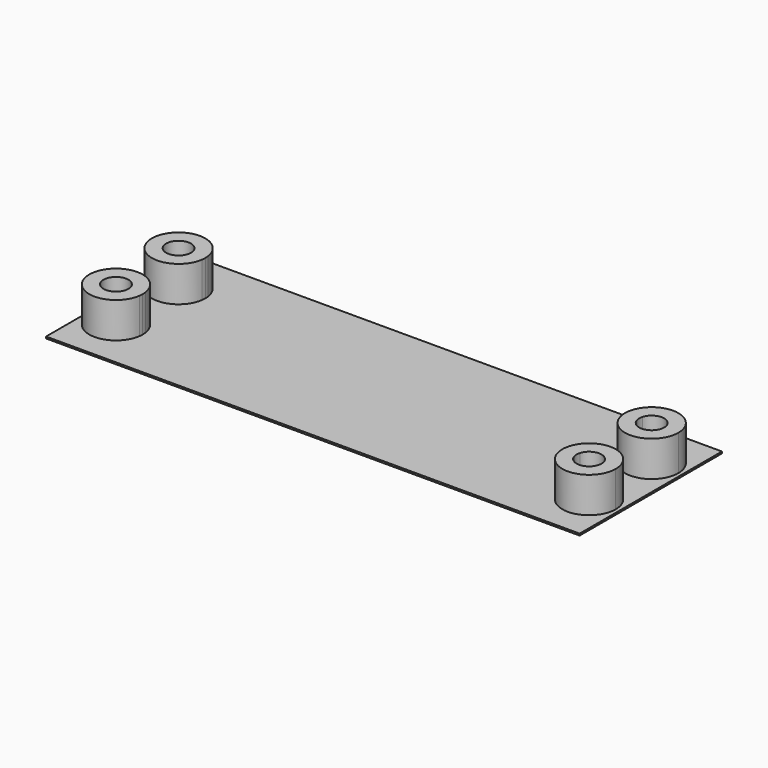
from build123d import *

# Parameters (mm, degrees)
F0_W     = 75
F0_H     = 25
F1_DEPTH = 0.25
F4_DEPTH = 5


with BuildPart() as f1:
    # F0 (on Top) → F1 (new body)
    with BuildSketch(Plane.XY):
        with Locations((-0.3449308872, 0.0735294118)):
            Rectangle(F0_W, F0_H)
        with BuildLine():
            ThreePointArc((-29.8784137004, -5.9264705882), (-37.3449308872, -5.4264705882), (-29.8784137004, -4.9264705882))
            Line((-29.8784137004, -4.9264705882), (-28.3449308872, -4.9264705882))
            Line((-28.3449308872, -4.9264705882), (-24.3449308872, -1.4264705882))
            Line((-24.3449308872, -1.4264705882), (23.6550691128, -1.4264705882))
            Line((23.6550691128, -1.4264705882), (27.6550691128, -4.9264705882))
            Line((27.6550691128, -4.9264705882), (29.1885519259, -4.9264705882))
            ThreePointArc((29.1885519259, -4.9264705882), (33.1556290351, -1.6848506549), (36.6550691128, -5.4264705882))
            ThreePointArc((36.6550691128, -5.4264705882), (33.1556290351, -9.1680905215), (29.1885519259, -5.9264705882))
            Line((29.1885519259, -5.9264705882), (27.6550691128, -5.9264705882))
            Line((27.6550691128, -5.9264705882), (23.6550691128, -9.4264705882))
            Line((23.6550691128, -9.4264705882), (-24.3449308872, -9.4264705882))
            Line((-24.3449308872, -9.4264705882), (-28.3449308872, -5.9264705882))
            Line((-28.3449308872, -5.9264705882), (-29.8784137004, -5.9264705882))
        make_face(mode=Mode.SUBTRACT)
        with BuildLine():
            ThreePointArc((-29.8784137004, 5.0735294118), (-37.3449308872, 5.5735294118), (-29.8784137004, 6.0735294118))
            Line((-29.8784137004, 6.0735294118), (-28.3449308872, 6.0735294118))
            Line((-28.3449308872, 6.0735294118), (-24.3449308872, 9.5735294118))
            Line((-24.3449308872, 9.5735294118), (23.6550691128, 9.5735294118))
            Line((23.6550691128, 9.5735294118), (27.6550691128, 6.0735294118))
            Line((27.6550691128, 6.0735294118), (29.1885519259, 6.0735294118))
            ThreePointArc((29.1885519259, 6.0735294118), (33.1556290351, 9.3151493451), (36.6550691128, 5.5735294118))
            ThreePointArc((36.6550691128, 5.5735294118), (33.1556290351, 1.8319094785), (29.1885519259, 5.0735294118))
            Line((29.1885519259, 5.0735294118), (27.6550691128, 5.0735294118))
            Line((27.6550691128, 5.0735294118), (23.6550691128, 1.5735294118))
            Line((23.6550691128, 1.5735294118), (-24.3449308872, 1.5735294118))
            Line((-24.3449308872, 1.5735294118), (-28.3449308872, 5.0735294118))
            Line((-28.3449308872, 5.0735294118), (-29.8784137004, 5.0735294118))
        make_face(mode=Mode.SUBTRACT)
        with BuildLine():
            Line((29.1885519259, 6.0735294118), (27.6550691128, 6.0735294118))
            Line((27.6550691128, 6.0735294118), (27.6550691128, 5.0735294118))
            Line((27.6550691128, 5.0735294118), (29.1885519259, 5.0735294118))
            ThreePointArc((29.1885519259, 5.0735294118), (29.1550691128, 5.5735294118), (29.1885519259, 6.0735294118))
        make_face()
        with BuildLine():
            ThreePointArc((36.6550691128, 5.5735294118), (33.1556290351, 9.3151493451), (29.1885519259, 6.0735294118))
            Line((29.1885519259, 6.0735294118), (31.2280181297, 6.0735294118))
            ThreePointArc((31.2280181297, 6.0735294118), (33.1577158815, 7.3051961263), (34.6550691128, 5.5735294118))
            ThreePointArc((34.6550691128, 5.5735294118), (33.1577158815, 3.8418626972), (31.2280181297, 5.0735294118))
            Line((31.2280181297, 5.0735294118), (29.1885519259, 5.0735294118))
            ThreePointArc((29.1885519259, 5.0735294118), (33.1556290351, 1.8319094785), (36.6550691128, 5.5735294118))
        make_face()
        with BuildLine():
            Line((31.2280181297, 6.0735294118), (29.1885519259, 6.0735294118))
            ThreePointArc((29.1885519259, 6.0735294118), (29.1550691128, 5.5735294118), (29.1885519259, 5.0735294118))
            Line((29.1885519259, 5.0735294118), (31.2280181297, 5.0735294118))
            ThreePointArc((31.2280181297, 5.0735294118), (31.1550691128, 5.5735294118), (31.2280181297, 6.0735294118))
        make_face()
        with BuildLine():
            ThreePointArc((34.6550691128, 5.5735294118), (33.1577158815, 7.3051961263), (31.2280181297, 6.0735294118))
            Line((31.2280181297, 6.0735294118), (34.1550691128, 6.0735294118))
            Line((34.1550691128, 6.0735294118), (34.1550691128, 5.0735294118))
            Line((34.1550691128, 5.0735294118), (31.2280181297, 5.0735294118))
            ThreePointArc((31.2280181297, 5.0735294118), (33.1577158815, 3.8418626972), (34.6550691128, 5.5735294118))
        make_face()
        with BuildLine():
            Line((29.1885519259, -4.9264705882), (27.6550691128, -4.9264705882))
            Line((27.6550691128, -4.9264705882), (27.6550691128, -5.9264705882))
            Line((27.6550691128, -5.9264705882), (29.1885519259, -5.9264705882))
            ThreePointArc((29.1885519259, -5.9264705882), (29.1550691128, -5.4264705882), (29.1885519259, -4.9264705882))
        make_face()
        with BuildLine():
            Line((31.2280181297, -4.9264705882), (29.1885519259, -4.9264705882))
            ThreePointArc((29.1885519259, -4.9264705882), (29.1550691128, -5.4264705882), (29.1885519259, -5.9264705882))
            Line((29.1885519259, -5.9264705882), (31.2280181297, -5.9264705882))
            ThreePointArc((31.2280181297, -5.9264705882), (31.1550691128, -5.4264705882), (31.2280181297, -4.9264705882))
        make_face()
        with BuildLine():
            ThreePointArc((36.6550691128, -5.4264705882), (33.1556290351, -1.6848506549), (29.1885519259, -4.9264705882))
            Line((29.1885519259, -4.9264705882), (31.2280181297, -4.9264705882))
            ThreePointArc((31.2280181297, -4.9264705882), (33.1577158815, -3.6948038737), (34.6550691128, -5.4264705882))
            ThreePointArc((34.6550691128, -5.4264705882), (33.1577158815, -7.1581373028), (31.2280181297, -5.9264705882))
            Line((31.2280181297, -5.9264705882), (29.1885519259, -5.9264705882))
            ThreePointArc((29.1885519259, -5.9264705882), (33.1556290351, -9.1680905215), (36.6550691128, -5.4264705882))
        make_face()
        with BuildLine():
            ThreePointArc((34.6550691128, -5.4264705882), (33.1577158815, -3.6948038737), (31.2280181297, -4.9264705882))
            Line((31.2280181297, -4.9264705882), (34.1550691128, -4.9264705882))
            Line((34.1550691128, -4.9264705882), (34.1550691128, -5.9264705882))
            Line((34.1550691128, -5.9264705882), (31.2280181297, -5.9264705882))
            ThreePointArc((31.2280181297, -5.9264705882), (33.1577158815, -7.1581373028), (34.6550691128, -5.4264705882))
        make_face()
        Polygon((-24.3449308872, -1.4264705882), (-28.3449308872, -4.9264705882), (-28.3449308872, -5.9264705882), (-24.3449308872, -9.4264705882), (23.6550691128, -9.4264705882), (27.6550691128, -5.9264705882), (27.6550691128, -4.9264705882), (23.6550691128, -1.4264705882), align=None)
        Polygon((-24.3449308872, 9.5735294118), (-28.3449308872, 6.0735294118), (-28.3449308872, 5.0735294118), (-24.3449308872, 1.5735294118), (23.6550691128, 1.5735294118), (27.6550691128, 5.0735294118), (27.6550691128, 6.0735294118), (23.6550691128, 9.5735294118), align=None)
        with BuildLine():
            Line((-28.3449308872, 6.0735294118), (-29.8784137004, 6.0735294118))
            ThreePointArc((-29.8784137004, 6.0735294118), (-29.8533109539, 5.8240893341), (-29.8449308872, 5.5735294118))
            ThreePointArc((-29.8449308872, 5.5735294118), (-29.8533109539, 5.3229694894), (-29.8784137004, 5.0735294118))
            Line((-29.8784137004, 5.0735294118), (-28.3449308872, 5.0735294118))
            Line((-28.3449308872, 5.0735294118), (-28.3449308872, 6.0735294118))
        make_face()
        with BuildLine():
            Line((-28.3449308872, -4.9264705882), (-29.8784137004, -4.9264705882))
            ThreePointArc((-29.8784137004, -4.9264705882), (-29.8533109539, -5.1759106659), (-29.8449308872, -5.4264705882))
            ThreePointArc((-29.8449308872, -5.4264705882), (-29.8533109539, -5.6770305106), (-29.8784137004, -5.9264705882))
            Line((-29.8784137004, -5.9264705882), (-28.3449308872, -5.9264705882))
            Line((-28.3449308872, -5.9264705882), (-28.3449308872, -4.9264705882))
        make_face()
        with BuildLine():
            ThreePointArc((-31.9178799041, -5.9264705882), (-35.3449308872, -5.4264705882), (-31.9178799041, -4.9264705882))
            Line((-31.9178799041, -4.9264705882), (-29.8784137004, -4.9264705882))
            ThreePointArc((-29.8784137004, -4.9264705882), (-37.3449308872, -5.4264705882), (-29.8784137004, -5.9264705882))
            Line((-29.8784137004, -5.9264705882), (-31.9178799041, -5.9264705882))
        make_face()
        with BuildLine():
            Line((-29.8784137004, -4.9264705882), (-31.9178799041, -4.9264705882))
            ThreePointArc((-31.9178799041, -4.9264705882), (-31.8632641727, -5.1738238195), (-31.8449308872, -5.4264705882))
            ThreePointArc((-31.8449308872, -5.4264705882), (-31.8632641727, -5.679117357), (-31.9178799041, -5.9264705882))
            Line((-31.9178799041, -5.9264705882), (-29.8784137004, -5.9264705882))
            ThreePointArc((-29.8784137004, -5.9264705882), (-29.8533109539, -5.6770305106), (-29.8449308872, -5.4264705882))
            ThreePointArc((-29.8449308872, -5.4264705882), (-29.8533109539, -5.1759106659), (-29.8784137004, -4.9264705882))
        make_face()
        with BuildLine():
            Line((-34.8449308872, -5.9264705882), (-34.8449308872, -4.9264705882))
            Line((-34.8449308872, -4.9264705882), (-31.9178799041, -4.9264705882))
            ThreePointArc((-31.9178799041, -4.9264705882), (-35.3449308872, -5.4264705882), (-31.9178799041, -5.9264705882))
            Line((-31.9178799041, -5.9264705882), (-34.8449308872, -5.9264705882))
        make_face()
        with BuildLine():
            ThreePointArc((-31.9178799041, 5.0735294118), (-35.3449308872, 5.5735294118), (-31.9178799041, 6.0735294118))
            Line((-31.9178799041, 6.0735294118), (-29.8784137004, 6.0735294118))
            ThreePointArc((-29.8784137004, 6.0735294118), (-37.3449308872, 5.5735294118), (-29.8784137004, 5.0735294118))
            Line((-29.8784137004, 5.0735294118), (-31.9178799041, 5.0735294118))
        make_face()
        with BuildLine():
            Line((-29.8784137004, 6.0735294118), (-31.9178799041, 6.0735294118))
            ThreePointArc((-31.9178799041, 6.0735294118), (-31.8632641727, 5.8261761805), (-31.8449308872, 5.5735294118))
            ThreePointArc((-31.8449308872, 5.5735294118), (-31.8632641727, 5.320882643), (-31.9178799041, 5.0735294118))
            Line((-31.9178799041, 5.0735294118), (-29.8784137004, 5.0735294118))
            ThreePointArc((-29.8784137004, 5.0735294118), (-29.8533109539, 5.3229694894), (-29.8449308872, 5.5735294118))
            ThreePointArc((-29.8449308872, 5.5735294118), (-29.8533109539, 5.8240893341), (-29.8784137004, 6.0735294118))
        make_face()
        with BuildLine():
            Line((-34.8449308872, 5.0735294118), (-34.8449308872, 6.0735294118))
            Line((-34.8449308872, 6.0735294118), (-31.9178799041, 6.0735294118))
            ThreePointArc((-31.9178799041, 6.0735294118), (-35.3449308872, 5.5735294118), (-31.9178799041, 5.0735294118))
            Line((-31.9178799041, 5.0735294118), (-34.8449308872, 5.0735294118))
        make_face()
    extrude(amount=F1_DEPTH)

    # F3 (on offset) → F4 (join)
    with BuildSketch(Plane.XY.offset(0.25)):
        with BuildLine():
            ThreePointArc((36.6443298969, 5.5567010309), (33.1448898193, 9.2983209642), (29.1778127101, 6.0567010309))
            Line((29.1778127101, 6.0567010309), (31.2172789138, 6.0567010309))
            ThreePointArc((31.2172789138, 6.0567010309), (33.1469766657, 7.2883677455), (34.6443298969, 5.5567010309))
            ThreePointArc((34.6443298969, 5.5567010309), (33.1469766657, 3.8250343164), (31.2172789138, 5.0567010309))
            Line((31.2172789138, 5.0567010309), (29.1778127101, 5.0567010309))
            ThreePointArc((29.1778127101, 5.0567010309), (33.1448898193, 1.8150810976), (36.6443298969, 5.5567010309))
        make_face()
        with BuildLine():
            Line((31.2172789138, 6.0567010309), (29.1778127101, 6.0567010309))
            ThreePointArc((29.1778127101, 6.0567010309), (29.1443298969, 5.5567010309), (29.1778127101, 5.0567010309))
            Line((29.1778127101, 5.0567010309), (31.2172789138, 5.0567010309))
            ThreePointArc((31.2172789138, 5.0567010309), (31.1443298969, 5.5567010309), (31.2172789138, 6.0567010309))
        make_face()
        with BuildLine():
            ThreePointArc((36.6443298969, -5.4432989691), (33.1448898193, -1.7016790358), (29.1778127101, -4.9432989691))
            Line((29.1778127101, -4.9432989691), (31.2172789138, -4.9432989691))
            ThreePointArc((31.2172789138, -4.9432989691), (33.1469766657, -3.7116322545), (34.6443298969, -5.4432989691))
            ThreePointArc((34.6443298969, -5.4432989691), (33.1469766657, -7.1749656836), (31.2172789138, -5.9432989691))
            Line((31.2172789138, -5.9432989691), (29.1778127101, -5.9432989691))
            ThreePointArc((29.1778127101, -5.9432989691), (33.1448898193, -9.1849189024), (36.6443298969, -5.4432989691))
        make_face()
        with BuildLine():
            Line((31.2172789138, -4.9432989691), (29.1778127101, -4.9432989691))
            ThreePointArc((29.1778127101, -4.9432989691), (29.1443298969, -5.4432989691), (29.1778127101, -5.9432989691))
            Line((29.1778127101, -5.9432989691), (31.2172789138, -5.9432989691))
            ThreePointArc((31.2172789138, -5.9432989691), (31.1443298969, -5.4432989691), (31.2172789138, -4.9432989691))
        make_face()
        with BuildLine():
            ThreePointArc((-31.92861912, 5.0567010309), (-35.3556701031, 5.5567010309), (-31.92861912, 6.0567010309))
            Line((-31.92861912, 6.0567010309), (-29.8891529163, 6.0567010309))
            ThreePointArc((-29.8891529163, 6.0567010309), (-37.3556701031, 5.5567010309), (-29.8891529163, 5.0567010309))
            Line((-29.8891529163, 5.0567010309), (-31.92861912, 5.0567010309))
        make_face()
        with BuildLine():
            Line((-29.8891529163, 6.0567010309), (-31.92861912, 6.0567010309))
            ThreePointArc((-31.92861912, 6.0567010309), (-31.8740033886, 5.8093477997), (-31.8556701031, 5.5567010309))
            ThreePointArc((-31.8556701031, 5.5567010309), (-31.8740033886, 5.3040542622), (-31.92861912, 5.0567010309))
            Line((-31.92861912, 5.0567010309), (-29.8891529163, 5.0567010309))
            ThreePointArc((-29.8891529163, 5.0567010309), (-29.8640501698, 5.3061411086), (-29.8556701031, 5.5567010309))
            ThreePointArc((-29.8556701031, 5.5567010309), (-29.8640501698, 5.8072609533), (-29.8891529163, 6.0567010309))
        make_face()
        with BuildLine():
            ThreePointArc((-31.92861912, -5.9432989691), (-35.3556701031, -5.4432989691), (-31.92861912, -4.9432989691))
            Line((-31.92861912, -4.9432989691), (-29.8891529163, -4.9432989691))
            ThreePointArc((-29.8891529163, -4.9432989691), (-37.3556701031, -5.4432989691), (-29.8891529163, -5.9432989691))
            Line((-29.8891529163, -5.9432989691), (-31.92861912, -5.9432989691))
        make_face()
        with BuildLine():
            Line((-29.8891529163, -4.9432989691), (-31.92861912, -4.9432989691))
            ThreePointArc((-31.92861912, -4.9432989691), (-31.8740033886, -5.1906522003), (-31.8556701031, -5.4432989691))
            ThreePointArc((-31.8556701031, -5.4432989691), (-31.8740033886, -5.6959457378), (-31.92861912, -5.9432989691))
            Line((-31.92861912, -5.9432989691), (-29.8891529163, -5.9432989691))
            ThreePointArc((-29.8891529163, -5.9432989691), (-29.8640501698, -5.6938588914), (-29.8556701031, -5.4432989691))
            ThreePointArc((-29.8556701031, -5.4432989691), (-29.8640501698, -5.1927390467), (-29.8891529163, -4.9432989691))
        make_face()
    extrude(amount=F4_DEPTH)


solid = f1.part
